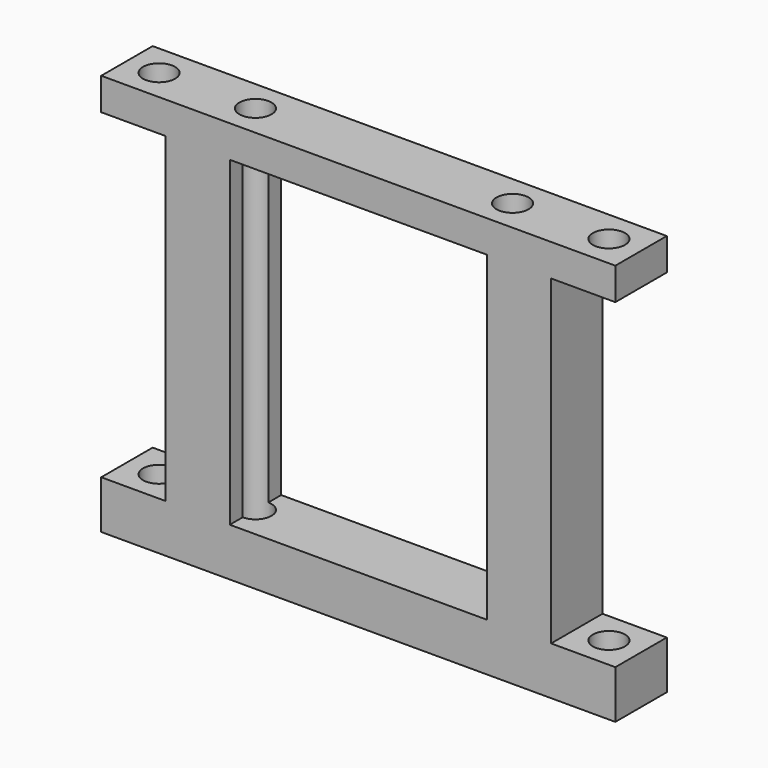
from build123d import *

# Parameters (mm, degrees)
F0_W     = 203.2
F0_H     = 158.75
F1_DEPTH = 25.4
F2_W     = 25.4
F2_H     = 127
F3_DEPTH = 25.4
F4_R     = 6.35
F5_DEPTH = 177.8
F6_R     = 6.35
F7_DEPTH = 177.8
F8_W     = 101.6
F8_H     = 127
F9_DEPTH = 25.4


with BuildPart() as f1:
    # F0 (on Front) → F1 (new body)
    with BuildSketch(Plane.XZ):
        with Locations((6.657936, 27.667538)):
            Rectangle(F0_W, F0_H)
    extrude(amount=F1_DEPTH)

    # F2 (on face) → F3 (cut)
    with BuildSketch(Plane.XZ.offset(25.4)):
        with Locations((-82.242064, 30.842538)):
            Rectangle(F2_W, F2_H)
        with Locations((95.557936, 30.842538)):
            Rectangle(F2_W, F2_H)
    extrude(amount=-F3_DEPTH, mode=Mode.SUBTRACT)

    # F4 (on face) → F5 (cut)
    with BuildSketch(Plane(origin=(0, 0, -51.707462), x_dir=(1, 0, 0), z_dir=(0, 0, -1))):
        with Locations((-44.142064, 12.7)):
            Circle(F4_R)
        with Locations((57.457936, 12.7)):
            Circle(F4_R)
    extrude(amount=-F5_DEPTH, mode=Mode.SUBTRACT)

    # F6 (on face) → F7 (cut)
    with BuildSketch(Plane(origin=(0, 0, -51.707462), x_dir=(1, 0, 0), z_dir=(0, 0, -1))):
        with Locations((-82.242064, 12.7)):
            Circle(F6_R)
        with Locations((95.557936, 12.7)):
            Circle(F6_R)
    extrude(amount=-F7_DEPTH, mode=Mode.SUBTRACT)

    # F8 (on face) → F9 (cut)
    with BuildSketch(Plane.XZ.offset(25.4)):
        with Locations((6.657936, 30.842538)):
            Rectangle(F8_W, F8_H)
    extrude(amount=-F9_DEPTH, mode=Mode.SUBTRACT)


solid = f1.part
